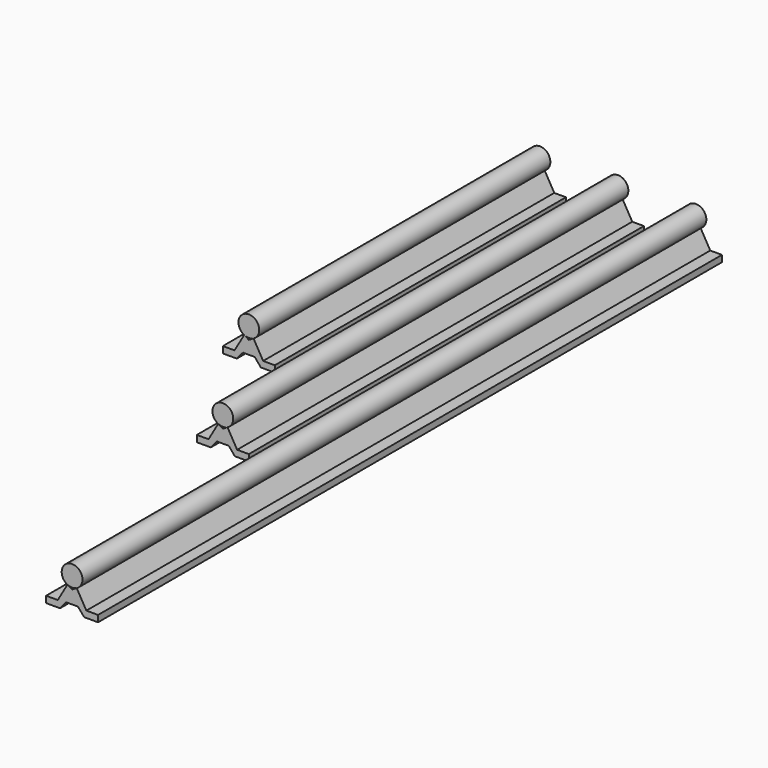
from build123d import *

# Parameters (mm, degrees)
F0_R     = 8
F1_DEPTH = 380
F2_DEPTH = 600
F3_DEPTH = 280


with BuildPart() as f1:
    # F0 (on Front) → F1 (new body)
    with BuildSketch(Plane.XZ):
        Circle(F0_R)
        Polygon((9.25, -25), (20, -25), (20, -20), (11, -20), (3.609917, -7.2), (0, -9.284186), (-3.609917, -7.2), (-11, -20), (-20, -20), (-20, -25), (-9.25, -25), (-4.55264, -19.401904), (4.55264, -19.401904), align=None)
    extrude(amount=F1_DEPTH)


with BuildPart() as f2:
    # F0 (on Front) → F2 (new body)
    with BuildSketch(Plane.XZ):
        with Locations((60, 0)):
            Circle(F0_R)
        Polygon((69.25, -25), (80, -25), (80, -20), (71, -20), (63.609917, -7.2), (60, -9.284186), (56.390083, -7.2), (49, -20), (40, -20), (40, -25), (50.75, -25), (55.44736, -19.401904), (64.55264, -19.401904), align=None)
    extrude(amount=F2_DEPTH)


with BuildPart() as f3:
    # F0 (on Front) → F3 (new body)
    with BuildSketch(Plane.XZ):
        with Locations((-60, 0)):
            Circle(F0_R)
        Polygon((-50.75, -25), (-40, -25), (-40, -20), (-49, -20), (-56.390083, -7.2), (-60, -9.284186), (-63.609917, -7.2), (-71, -20), (-80, -20), (-80, -25), (-69.25, -25), (-64.55264, -19.401904), (-55.44736, -19.401904), align=None)
    extrude(amount=F3_DEPTH)


solid = Compound([f1.part, f2.part, f3.part])
